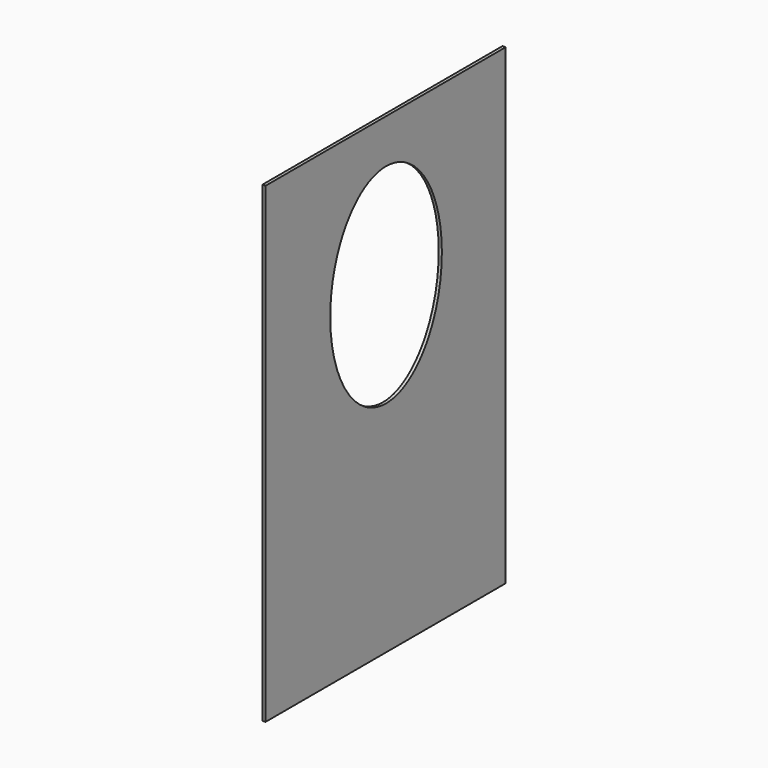
from build123d import *

# Parameters (mm, degrees)
F0_W     = 1219.2
F0_H     = 1917.7
F1_DEPTH = 12.7
F3_DEPTH = 12.7


with BuildPart() as f1:
    # F0 (on Right) → F1 (new body)
    with BuildSketch(Plane.YZ):
        with Locations((609.6, 958.85)):
            Rectangle(F0_W, F0_H)
    extrude(amount=F1_DEPTH)

    # F2 (on face) → F3 (cut)
    with BuildSketch(Plane.YZ.offset(12.7)):
        with BuildLine():
            add(Edge.make_bspline(
                [(612.0562553406, 890.4310781131), (1102.8678712659, 890.4310781131), (857.4620633032, 1526.8235644514), (612.0562553406, 2163.2160507898), (366.6504473779, 1526.8235644514), (121.2446394153, 890.4310781131), (612.0562553406, 890.4310781131)],
                knots=[0, 0, 0, 2.0943951024, 2.0943951024, 4.1887902048, 4.1887902048, 6.2831853072, 6.2831853072, 6.2831853072], degree=2, weights=[1, 0.5, 1, 0.5, 1, 0.5, 1]))
        make_face()
    extrude(amount=-F3_DEPTH, mode=Mode.SUBTRACT)


solid = f1.part
